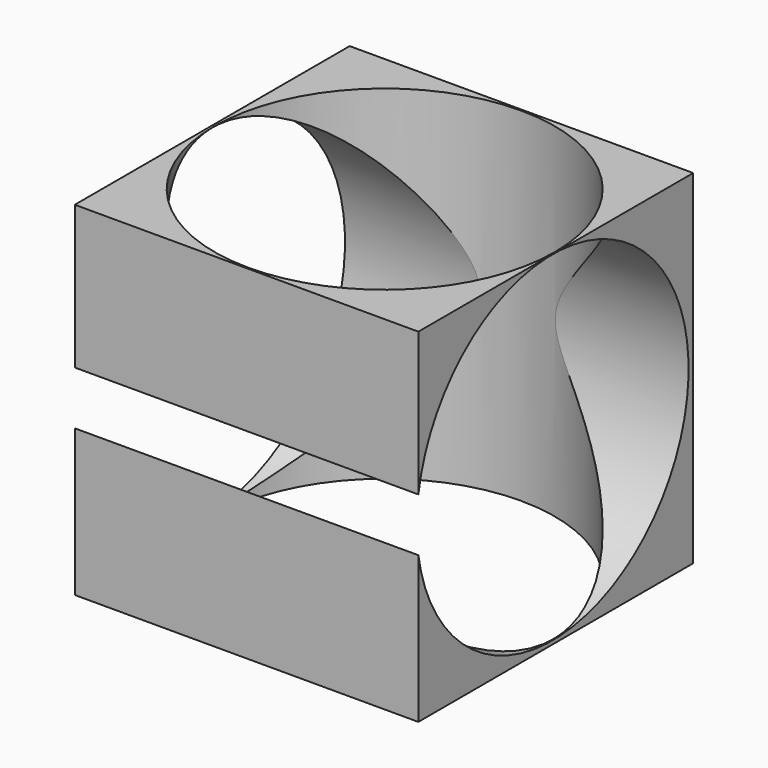
from build123d import *

# Parameters (mm, degrees)
F0_W     = 76.2
F0_H     = 76.2
F1_DEPTH = 76.2
F2_R     = 37.756667
F3_DEPTH = 76.2
F5_DEPTH = 78.74


with BuildPart() as f1:
    # F0 (on Front) → F1 (new body)
    with BuildSketch(Plane.XZ):
        with Locations((38.1, -38.1)):
            Rectangle(F0_W, F0_H)
    extrude(amount=F1_DEPTH)

    # F2 (on face) → F3 (cut)
    with BuildSketch(Plane.XY):
        with Locations((38.248464, -38.1)):
            Circle(F2_R)
    extrude(amount=-F3_DEPTH, mode=Mode.SUBTRACT)

    # F4 (on face) → F5 (cut)
    with BuildSketch(Plane(origin=(0, 0, 0), x_dir=(0, -1, 0), z_dir=(-1, 0, 0))):
        with BuildLine():
            Line((76.2, -43.645483), (76.2, -31.788889))
            ThreePointArc((76.2, -31.788889), (1.288281, -37.717186), (76.2, -43.645483))
        make_face()
    extrude(amount=-F5_DEPTH, mode=Mode.SUBTRACT)


solid = f1.part
